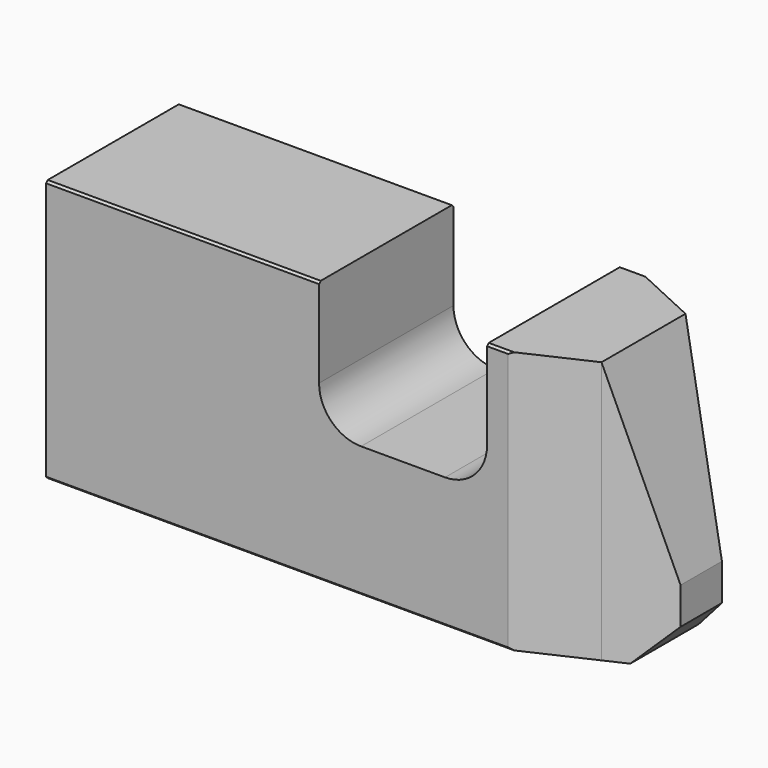
from build123d import *

# Parameters (mm, degrees)
F0_W     = 56
F0_H     = 16
F1_DEPTH = 25
F2_W     = 16
F2_H     = 16
F3_DEPTH = 12.5
F4_R     = 4
F7_DEPTH = 25
F8_DEPTH = 25
F9_SIZE  = 0.2


with BuildPart() as f1:
    # F0 (on Top) → F1 (new body)
    with BuildSketch(Plane.XY):
        with Locations((-3.4085810184, -0.5300787467)):
            Rectangle(F0_W, F0_H)
    extrude(amount=F1_DEPTH)

    # F2 (on face) → F3 (cut)
    with BuildSketch(Plane.XY.offset(25)):
        with Locations((2.5914189816, -0.5300787467)):
            Rectangle(F2_W, F2_H)
    extrude(amount=-F3_DEPTH, mode=Mode.SUBTRACT)

    # F4
    f4_edges = [f1.edges().sort_by_distance(p)[0] for p in [
        (10.591419, -0.530079, 12.5),
        (-5.408581, -0.530079, 12.5),
    ]]
    fillet(f4_edges, radius=F4_R)

    # F6 (on face) → F7 (cut)
    with BuildSketch(Plane.XZ.offset(8.5300787467)):
        Polygon((24.5914189816, 25), (19.0914189816, 25), (24.5914189816, 7.0707142143), align=None)
        Polygon((24.5914189816, 0), (24.5914189816, 3.5707142143), (21.0914189816, 0), align=None)
    extrude(amount=-F7_DEPTH, mode=Mode.SUBTRACT)

    # F5 (on face) → F8 (cut)
    with BuildSketch(Plane.XY.offset(25)):
        Polygon((19.0914189816, 7.4699212533), (12.5914189816, 7.4699212533), (19.0914189816, 4.4699212533), align=None)
        Polygon((19.0914189816, -5.5300787467), (12.5914189816, -8.5300787467), (19.0914189816, -8.5300787467), align=None)
        Polygon((19.0914189816, 7.4699212533), (19.0914189816, 4.4699212533), (24.5914189816, 1.9314597149), (24.5914189816, 7.4699212533), align=None)
        Polygon((24.5914189816, -8.5300787467), (24.5914189816, -2.9916172082), (19.0914189816, -5.5300787467), (19.0914189816, -8.5300787467), align=None)
    extrude(amount=-F8_DEPTH, mode=Mode.SUBTRACT)

    # F9
    f9_edges = [f1.edges().sort_by_distance(p)[0] for p in [
        (-18.408581, -8.530079, 25),
        (-18.408581, 7.469921, 25),
        (11.591419, 7.469921, 25),
        (11.591419, -8.530079, 25),
        (-9.408581, -8.530079, 0),
        (-9.408581, 7.469921, 0),
    ]]
    chamfer(f9_edges, length=F9_SIZE)


solid = f1.part
